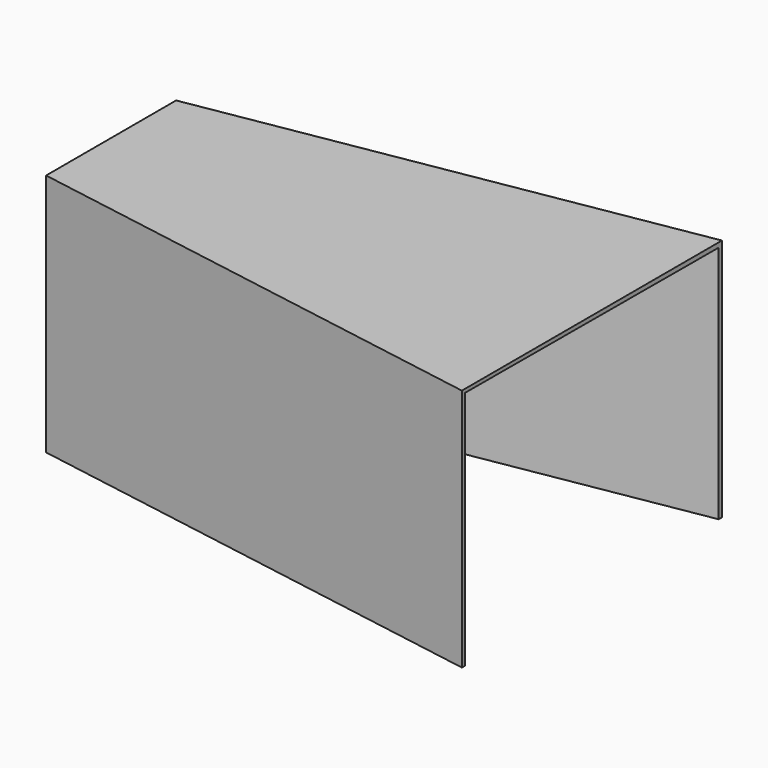
from build123d import *

# Parameters (mm, degrees)
F1_DEPTH = 190.5
F3_W     = 120.65
F3_H     = 187.8874


with BuildPart() as f1:
    # F0 (on Top) → F1 (new body)
    with BuildSketch(Plane.XY):
        Polygon((173.841653, -178.087749), (173.841653, 75.912251), (-201.829414, 12.412251), (-201.829414, -114.587749), align=None)
    extrude(amount=F1_DEPTH)

    # F2 (on face) → F4 section 0
    with BuildSketch(Plane.YZ.offset(173.841653)):
        Polygon((72.795157, 186.896468), (-174.853486, 187.716501), (-174.853486, 0), (72.795157, 0), align=None)
    # F3 (on face) → F4 section 1
    with BuildSketch(Plane(origin=(-201.829414, 0, 0), x_dir=(0, -1, 0), z_dir=(-1, 0, 0))):
        with Locations((51.248075, 93.9437)):
            Rectangle(F3_W, F3_H)
    loft(mode=Mode.SUBTRACT)


solid = f1.part
